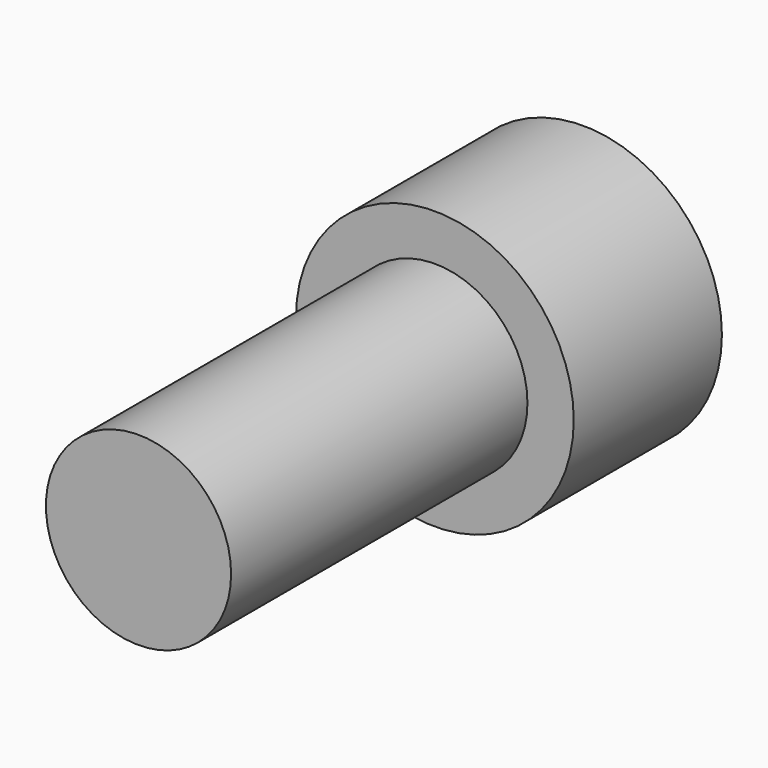
from build123d import *

# Parameters (mm, degrees)
F0_R     = 4.7625
F1_DEPTH = 6.35
F2_R     = 3.175
F3_DEPTH = 12.7
F5_DEPTH = 5.08


with BuildPart() as f1:
    # F0 (on Front) → F1 (new body)
    with BuildSketch(Plane.XZ):
        Circle(F0_R)
    extrude(amount=F1_DEPTH)

    # F2 (on face) → F3 (join)
    with BuildSketch(Plane.XZ.offset(6.35)):
        Circle(F2_R)
    extrude(amount=F3_DEPTH)

    # F4 (on face) → F5 (cut)
    with BuildSketch(Plane(origin=(0, 0, 0), x_dir=(-1, 0, 0), z_dir=(0, 1, 0))):
        Polygon((3.142612, -1.814388), (3.142612, 1.814388), (0, 3.628775), (-3.142612, 1.814388), (-3.142612, -1.814388), (0, -3.628775), align=None)
    extrude(amount=-F5_DEPTH, mode=Mode.SUBTRACT)


solid = f1.part
